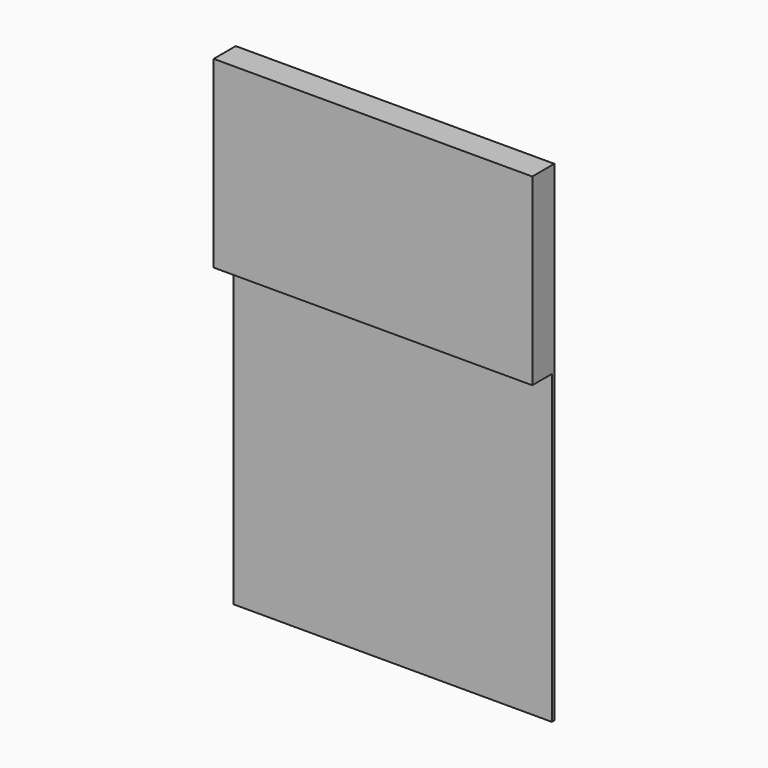
from build123d import *

# Parameters (mm, degrees)
F0_W     = 330.2
F0_H     = 317.5
F1_DEPTH = 3.175
F2_W     = 330.2
F2_H     = 3.175
F3_DEPTH = 190.5
F4_W     = 330.2
F4_H     = 190.5
F5_DEPTH = 25.4


with BuildPart() as f1:
    # F0 (on Front) → F1 (new body)
    with BuildSketch(Plane.XZ):
        with Locations((165.1, 158.75)):
            Rectangle(F0_W, F0_H)
    extrude(amount=F1_DEPTH)

    # F2 (on face) → F3 (join)
    with BuildSketch(Plane.XY.offset(317.5)):
        with Locations((165.1, -1.5875)):
            Rectangle(F2_W, F2_H)
    extrude(amount=F3_DEPTH)

    # F4 (on face) → F5 (join)
    with BuildSketch(Plane.XZ.offset(3.175)):
        with Locations((165.1, 412.75)):
            Rectangle(F4_W, F4_H)
    extrude(amount=F5_DEPTH)


solid = f1.part
